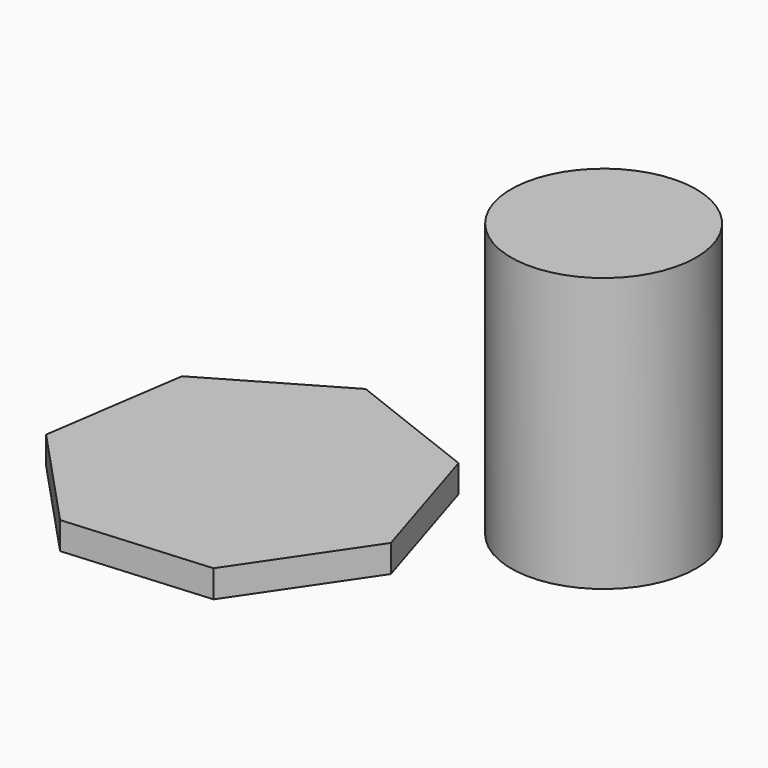
from build123d import *

# Parameters (mm, degrees)
F2_DEPTH = 12.7
F3_R     = 42.929861
F4_DEPTH = 127


with BuildPart() as f2:
    # F0 (on Top) → F2 (new body)
    with BuildSketch(Plane.XY):
        Polygon((-52.559563, -24.619598), (-72.519174, 39.588467), (-135.163675, 64.016488), (-193.320479, 30.269668), (-203.196326, -36.23995), (-157.354503, -85.429268), (-90.314836, -80.257725), align=None)
    extrude(amount=F2_DEPTH)


with BuildPart() as f4:
    # F3 (on Top) → F4 (new body)
    with BuildSketch(Plane.XY):
        with Locations((-11.839611, 47.864884)):
            Circle(F3_R)
    extrude(amount=F4_DEPTH)


solid = Compound([f2.part, f4.part])
